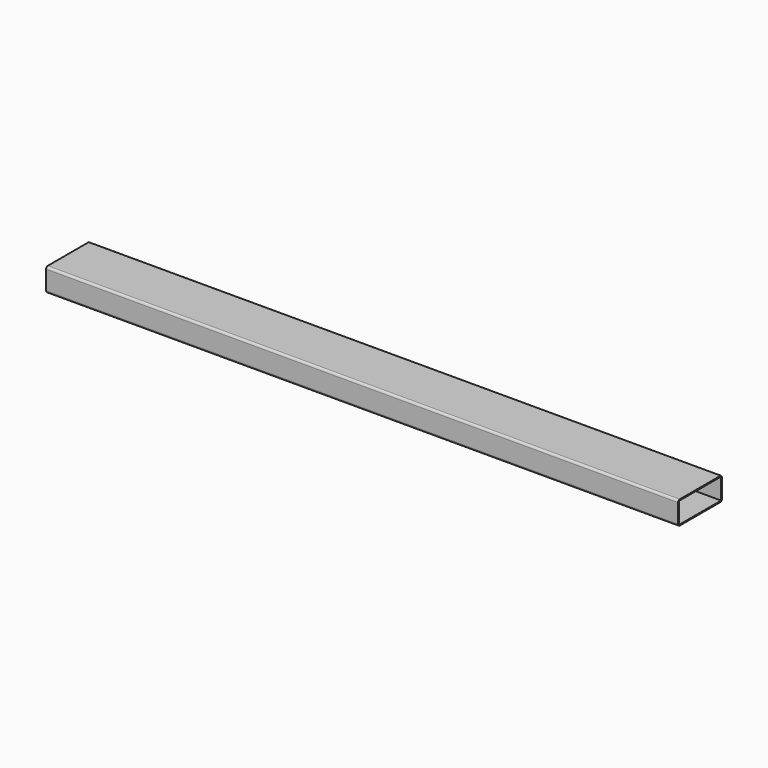
from build123d import *

# Parameters (mm, degrees)
F0_W     = 260
F0_H     = 110
F0_W_2   = 250
F0_H_2   = 100
F1_DEPTH = 3000
F2_R     = 10


with BuildPart() as f1:
    # F0 (on Right) → F1 (new body)
    with BuildSketch(Plane.YZ):
        Rectangle(F0_W, F0_H)
        Rectangle(F0_W_2, F0_H_2, mode=Mode.SUBTRACT)
    extrude(amount=F1_DEPTH)

    # F2
    f2_edges = [f1.edges().sort_by_distance(p)[0] for p in [
        (1500, -130, 55),
        (1500, 130, 55),
        (1500, -130, -55),
        (1500, 130, -55),
    ]]
    fillet(f2_edges, radius=F2_R)


solid = f1.part
